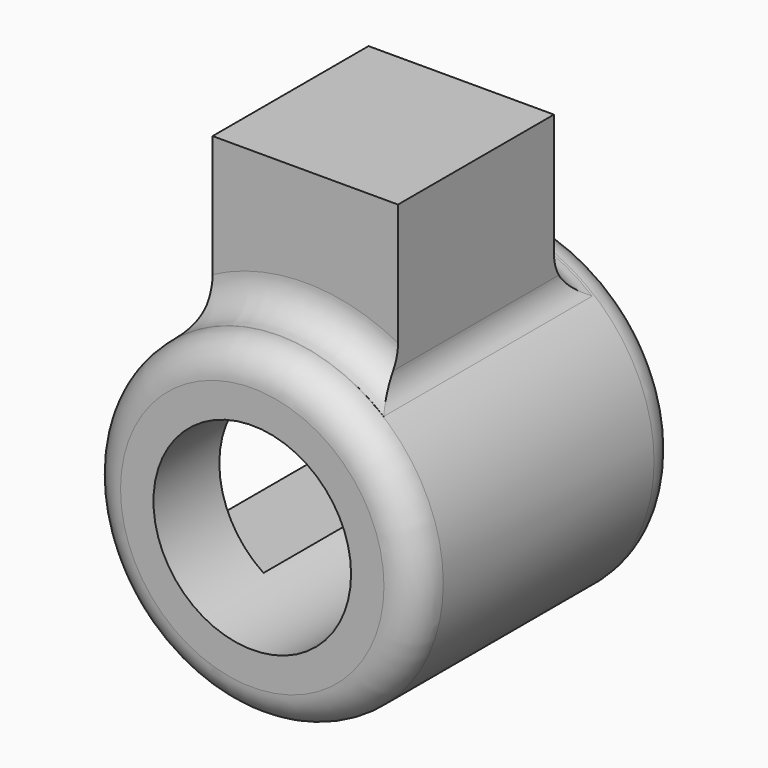
from build123d import *

# Parameters (mm, degrees)
F0_R     = 25
F0_R_2   = 15
F1_DEPTH = 50
F2_W     = 25
F2_H     = 25
F3_DEPTH = 25
F5_R     = 5
F6_W     = 28.14582
F6_H     = 29.589206
F7_DEPTH = 25
F8_R     = 5


with BuildPart() as f1:
    # F0 (on Front) → F1 (new body)
    with BuildSketch(Plane.XZ):
        Circle(F0_R)
        Circle(F0_R_2, mode=Mode.SUBTRACT)
    extrude(amount=F1_DEPTH)

    # F2 (on Right) → F3 (cut)
    with BuildSketch(Plane.YZ):
        with Locations((-25, 0)):
            Rectangle(F2_W, F2_H)
    extrude(amount=-F3_DEPTH, mode=Mode.SUBTRACT)

    # F5
    f5_edges = [f1.edges().sort_by_distance(p)[0] for p in [
        (-25, -50, 0),
        (-25, 0, 0),
    ]]
    fillet(f5_edges, radius=F5_R)

    # F6 (on offset) → F7 (join)
    with BuildSketch(Plane.XY.offset(20)):
        with Locations((0, -25.138795)):
            Rectangle(F6_W, F6_H)
    extrude(amount=F7_DEPTH)

    # F8
    f8_edges = [f1.edges().sort_by_distance(p)[0] for p in [
        (-14.07291, -25.138795, 20.662846),
        (0, -10.344192, 25),
        (14.07291, -25.138795, 20.662846),
        (0, -39.933398, 25),
    ]]
    fillet(f8_edges, radius=F8_R)


solid = f1.part
